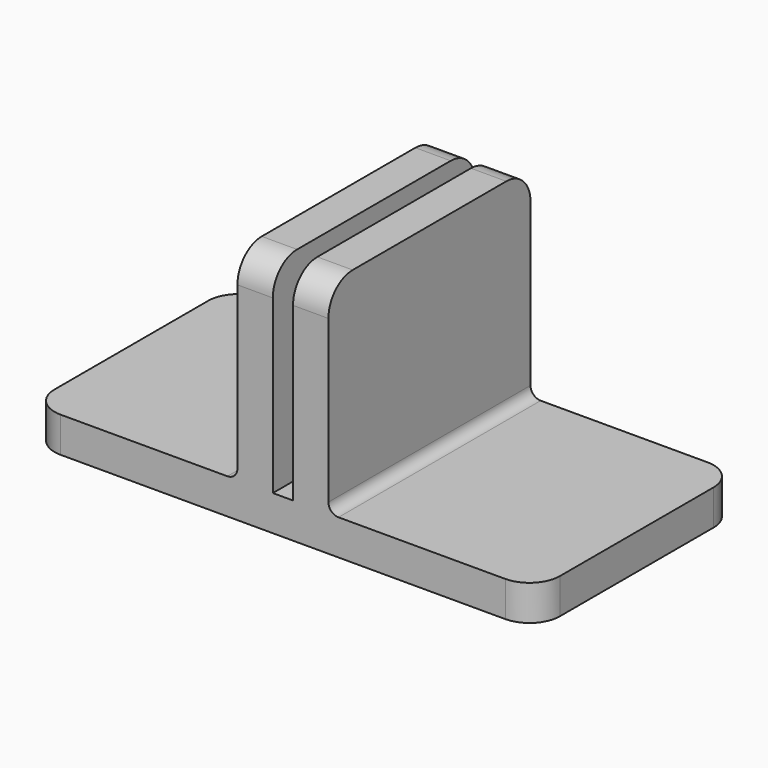
from build123d import *

# Parameters (mm, degrees)
F1_DEPTH = 25
F2_R     = 3
F3_R     = 1


with BuildPart() as f1:
    # F0 (on Front) → F1 (new body)
    with BuildSketch(Plane.XZ):
        Polygon((-25, 3.5), (-25, 0), (25, 0), (25, 3.5), (4.5, 3.5), (4.5, 23.5), (1, 23.5), (1, 3.5), (-1, 3.5), (-1, 23.5), (-4.5, 23.5), (-4.5, 3.5), align=None)
    extrude(amount=F1_DEPTH)

    # F2
    f2_edges = [f1.edges().sort_by_distance(p)[0] for p in [
        (-25, -25, 1.75),
        (-25, 0, 1.75),
        (-2.75, 0, 23.5),
        (-2.75, -25, 23.5),
        (2.75, -25, 23.5),
        (2.75, 0, 23.5),
        (25, -25, 1.75),
        (25, 0, 1.75),
    ]]
    fillet(f2_edges, radius=F2_R)

    # F3
    f3_edges = [f1.edges().sort_by_distance(p)[0] for p in [
        (-4.5, -12.5, 3.5),
        (4.5, -12.5, 3.5),
    ]]
    fillet(f3_edges, radius=F3_R)


solid = f1.part
